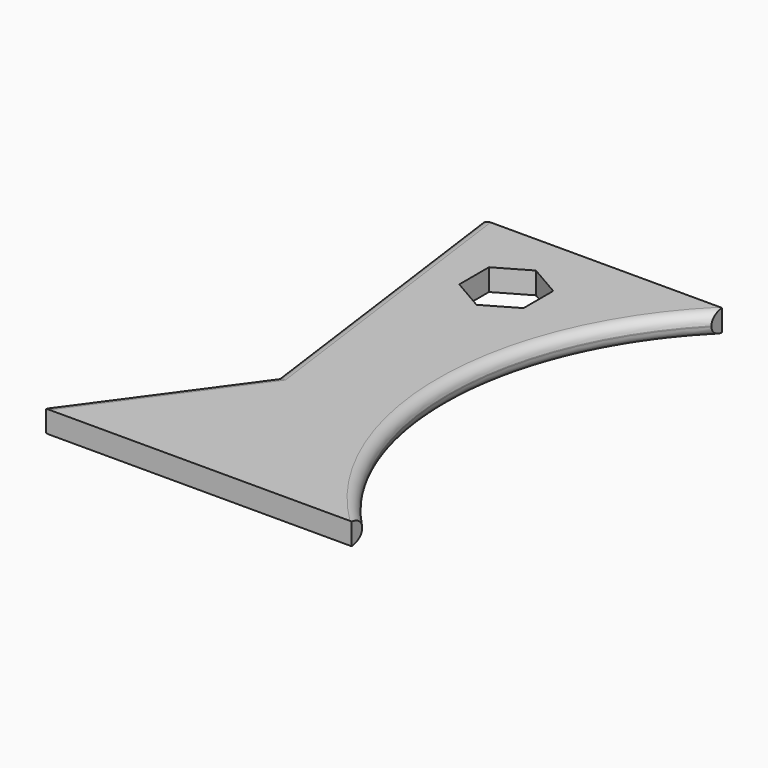
from build123d import *

# Parameters (mm, degrees)
PAD_DEPTH    = 5
POCKET_DEPTH = 5
FILLET_R     = 2.4
FILLET001_R  = 2.4


with BuildPart() as part:
    # Sketch → Pad (new body)
    with BuildSketch(Plane.XY):
        with BuildLine():
            Line((0, 0), (70, 0))
            Line((70, 0), (70, 3))
            ThreePointArc((70, 103), (49.807335, 53), (70, 3))
            Line((70, 106), (70, 103))
            Line((15, 106), (70, 106))
            Line((15, 103), (15, 106))
            Line((24, 36), (15, 103))
            Line((0, 3), (24, 36))
            Line((0, 0), (0, 3))
        make_face()
    extrude(amount=PAD_DEPTH)

    # Sketch001 → Pocket (cut)
    with BuildSketch(Plane.XY):
        Polygon((35, 96.5), (27.638784, 92.25), (27.638784, 83.75), (35, 79.5), (42.361216, 83.75), (42.361216, 92.25), align=None)
    extrude(amount=POCKET_DEPTH, mode=Mode.SUBTRACT)

    # Fillet
    fillet_edges = [part.edges().sort_by_distance(p)[0] for p in [
        (49.807335, 53, 5),
        (49.807335, 53, 0),
    ]]
    fillet(fillet_edges, radius=FILLET_R)

    # Fillet001
    fillet001_edges = [part.edges().sort_by_distance(p)[0] for p in [
        (19.5, 69.5, 5),
        (19.5, 69.5, 0),
        (12, 19.5, 5),
        (12, 19.5, 0),
    ]]
    fillet(fillet001_edges, radius=FILLET001_R)


solid = part.part
